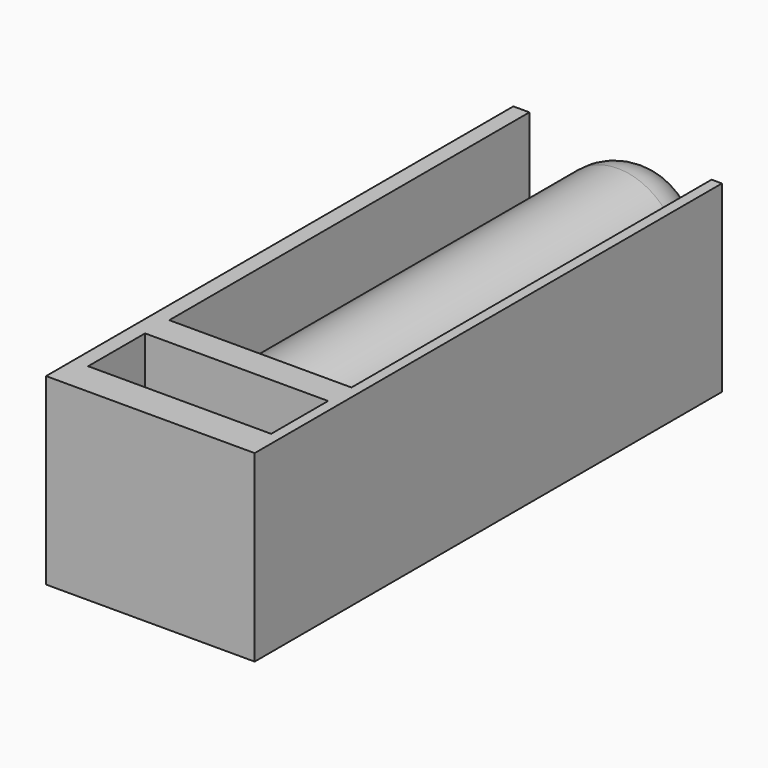
from build123d import *

# Parameters (mm, degrees)
F0_W     = 31.75
F0_H     = 88.9
F1_DEPTH = 2.54
F2_W     = 27.860178
F2_H     = 10.831637
F3_DEPTH = 25.4
F4_R     = 9.525
F5_DEPTH = 76.2
F6_R     = 7.62


with BuildPart() as f1:
    # F0 (on Top) → F1 (new body)
    with BuildSketch(Plane.XY):
        Rectangle(F0_W, F0_H)
    extrude(amount=F1_DEPTH)

    # F2 (on face) → F3 (join)
    with BuildSketch(Plane.XY.offset(2.54)):
        Polygon((15.875, -44.45), (15.875, 44.45), (14.305094, 44.45), (14.305094, -24.071639), (-13.428997, -24.071639), (-13.428997, 44.45), (-15.643887, 44.45), (-15.875, 44.45), (-15.875, -44.45), align=None)
        with Locations((0.375005, -33.933696)):
            Rectangle(F2_W, F2_H, mode=Mode.SUBTRACT)
    extrude(amount=F3_DEPTH)

    # F4 (on face) → F5 (join)
    with BuildSketch(Plane(origin=(0, -24.071639, 0), x_dir=(-1, 0, 0), z_dir=(0, 1, 0))):
        with Locations((0, 15.24)):
            Circle(F4_R)
    extrude(amount=F5_DEPTH)

    # F6
    f6_edges = [f1.edges().sort_by_distance(p)[0] for p in [
        (9.525, 52.128361, 15.24),
    ]]
    fillet(f6_edges, radius=F6_R)


solid = f1.part
